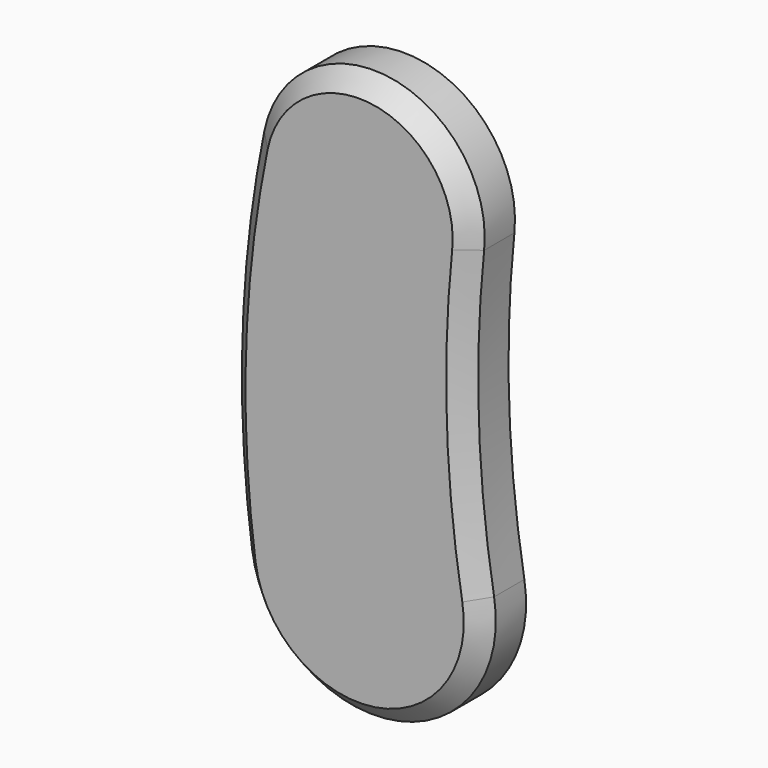
from build123d import *

# Parameters (mm, degrees)
F1_DEPTH = 25
F2_SIZE  = 8


with BuildPart() as f1:
    # F0 (on Front) → F1 (new body)
    with BuildSketch(Plane.XZ):
        with BuildLine():
            ThreePointArc((54.215298, -140.742492), (47.354384, -73.095896), (49.734695, -5.143939))
            ThreePointArc((49.734695, -5.143939), (7.576454, 49.42264), (-48.991684, 9.990741))
            ThreePointArc((-48.991684, 9.990741), (-58.804788, -73.485486), (-54.496368, -157.42603))
            ThreePointArc((-54.496368, -157.42603), (8.342952, -204.363546), (54.215298, -140.742492))
        make_face()
    extrude(amount=F1_DEPTH)

    # F2
    f2_edges = [f1.edges().sort_by_distance(p)[0] for p in [
        (7.576454, -25, 49.42264),
    ]]
    chamfer(f2_edges, length=F2_SIZE)


solid = f1.part
